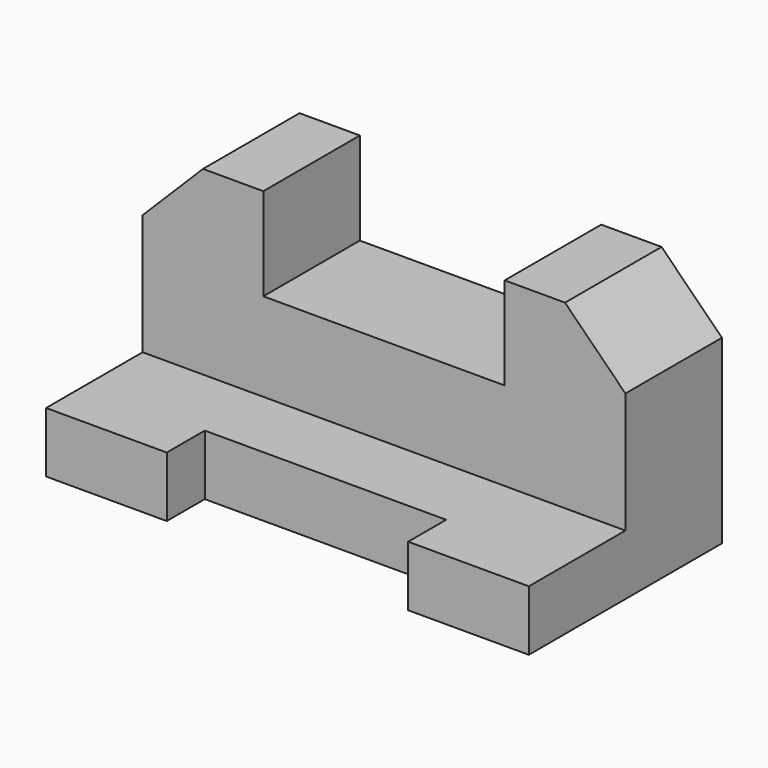
from build123d import *

# Parameters (mm, degrees)
F0_W      = 101.6
F0_H      = 42.112397
F1_DEPTH  = 101.6
F2_W      = 50.8
F2_H      = 76.2
F3_DEPTH  = 203.2
F4_W      = 101.6
F4_H      = 20.007362
F5_DEPTH  = 25.4
F6_W      = 101.6
F6_H      = 38.950141
F7_DEPTH  = 50.8
F9_DEPTH  = 101.6
F11_DEPTH = 101.6


with BuildPart() as f1:
    # F0 (on Front) → F1 (new body)
    with BuildSketch(Plane.XZ):
        Polygon((-50.799996, 59.025088), (-101.599996, 59.025088), (-101.599996, -42.574912), (101.600004, -42.574912), (101.600004, 59.025088), (50.800004, 59.025088), (50.800004, 16.912691), (-50.799996, 16.912691), align=None)
        with Locations((4e-06, 37.968889)):
            Rectangle(F0_W, F0_H)
    extrude(amount=F1_DEPTH)

    # F2 (on face) → F3 (cut)
    with BuildSketch(Plane.YZ.offset(101.600004)):
        with Locations((-76.2, 20.925088)):
            Rectangle(F2_W, F2_H)
    extrude(amount=-F3_DEPTH, mode=Mode.SUBTRACT)

    # F4 (on face) → F5 (cut)
    with BuildSketch(Plane.XY.offset(-17.174912)):
        with Locations((4e-06, -91.596319)):
            Rectangle(F4_W, F4_H)
    extrude(amount=-F5_DEPTH, mode=Mode.SUBTRACT)

    # F6 (on face) → F7 (cut)
    with BuildSketch(Plane.XZ.offset(50.8)):
        with Locations((4e-06, 39.550017)):
            Rectangle(F6_W, F6_H)
    extrude(amount=-F7_DEPTH, mode=Mode.SUBTRACT)

    # F8 (on face) → F9 (cut)
    with BuildSketch(Plane.XZ.offset(50.8)):
        Polygon((-76.199996, 59.025088), (-101.599996, 59.025088), (-101.599996, 33.625088), align=None)
    extrude(amount=-F9_DEPTH, mode=Mode.SUBTRACT)

    # F10 (on face) → F11 (cut)
    with BuildSketch(Plane.XZ.offset(50.8)):
        Polygon((76.200004, 59.025088), (101.600004, 33.625088), (101.600004, 59.025088), align=None)
    extrude(amount=-F11_DEPTH, mode=Mode.SUBTRACT)


solid = f1.part
